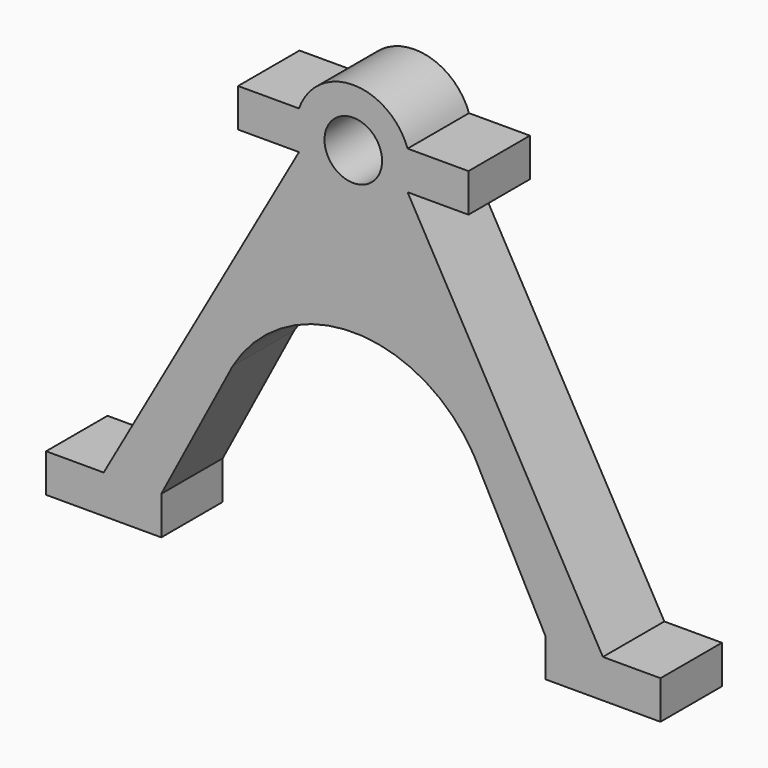
from build123d import *

# Parameters (mm, degrees)
F1_DEPTH = 12.7
F2_DEPTH = 12.7


with BuildPart() as f1:
    # F0 (on Front) → F1 (new body)
    with BuildSketch(Plane.XZ):
        with BuildLine():
            Line((-50.8, 6.35), (-50.8, 0))
            Line((-50.8, 0), (-31.75, 0))
            Line((-31.75, 0), (-31.75, 6.35))
            Line((-31.75, 6.35), (-19.920041, 28.826923))
            ThreePointArc((-19.920041, 28.826923), (0, 40.194522), (19.920041, 28.826923))
            Line((19.920041, 28.826923), (31.75, 6.35))
            Line((31.75, 6.35), (31.75, 0))
            Line((31.75, 0), (50.8, 0))
            Line((50.8, 0), (50.8, 6.35))
            Line((50.8, 6.35), (41.275, 6.35))
            Line((41.275, 6.35), (8.980256, 63.5))
            Line((8.980256, 63.5), (19.05, 63.5))
            Line((19.05, 63.5), (19.05, 66.675))
            Line((19.05, 66.675), (9.525, 66.675))
            Line((9.525, 66.675), (4.7625, 66.675))
            ThreePointArc((4.7625, 66.675), (0, 61.9125), (-4.7625, 66.675))
            Line((-4.7625, 66.675), (-9.525, 66.675))
            Line((-9.525, 66.675), (-19.05, 66.675))
            Line((-19.05, 66.675), (-19.05, 63.5))
            Line((-19.05, 63.5), (-8.980256, 63.5))
            Line((-8.980256, 63.5), (-41.275, 6.35))
            Line((-41.275, 6.35), (-50.8, 6.35))
        make_face()
    extrude(amount=F1_DEPTH)

    # F0 (on Front) → F2 (join)
    with BuildSketch(Plane.XZ):
        with BuildLine():
            Line((-19.05, 69.85), (-19.05, 66.675))
            Line((-19.05, 66.675), (-9.525, 66.675))
            Line((-9.525, 66.675), (-4.7625, 66.675))
            ThreePointArc((-4.7625, 66.675), (0, 71.4375), (4.7625, 66.675))
            Line((4.7625, 66.675), (9.525, 66.675))
            Line((9.525, 66.675), (19.05, 66.675))
            Line((19.05, 66.675), (19.05, 69.85))
            Line((19.05, 69.85), (8.980256, 69.85))
            ThreePointArc((8.980256, 69.85), (0, 76.2), (-8.980256, 69.85))
            Line((-8.980256, 69.85), (-19.05, 69.85))
        make_face()
    extrude(amount=F2_DEPTH)


solid = f1.part
